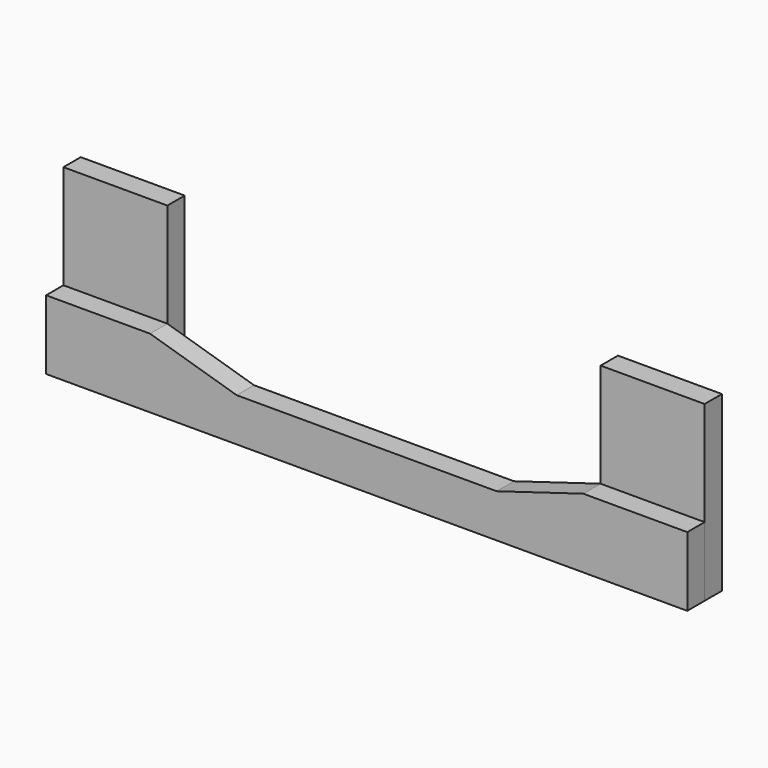
from build123d import *

# Parameters (mm, degrees)
F0_W     = 120
F0_H     = 200
F1_DEPTH = 25
F3_W     = 740
F3_H     = 80
F4_DEPTH = 25
F6_DEPTH = 50.001


with BuildPart() as f1:
    # F0 (on Front) → F1 (new body)
    with BuildSketch(Plane.XZ):
        with Locations((-310, 20)):
            Rectangle(F0_W, F0_H)
    extrude(amount=F1_DEPTH)


with BuildPart() as f2_1:
    # F2: instance of F1
    add(f1.part.mirror(Plane.YZ))


with BuildPart() as f4:
    # F3 (on face) → F4 (new body)
    with BuildSketch(Plane.XZ.offset(25)):
        with Locations((0, -40)):
            Rectangle(F3_W, F3_H)
    extrude(amount=F4_DEPTH)

    # F5 (on face) → F6 (cut, through all)
    with BuildSketch(Plane.XZ.offset(50)):
        Polygon((0, 0), (-250, 0), (-150, -30), (0, -30), (150, -30), (250, 0), align=None)
    extrude(amount=-F6_DEPTH, mode=Mode.SUBTRACT)


solid = Compound([f1.part, f2_1.part, f4.part])
